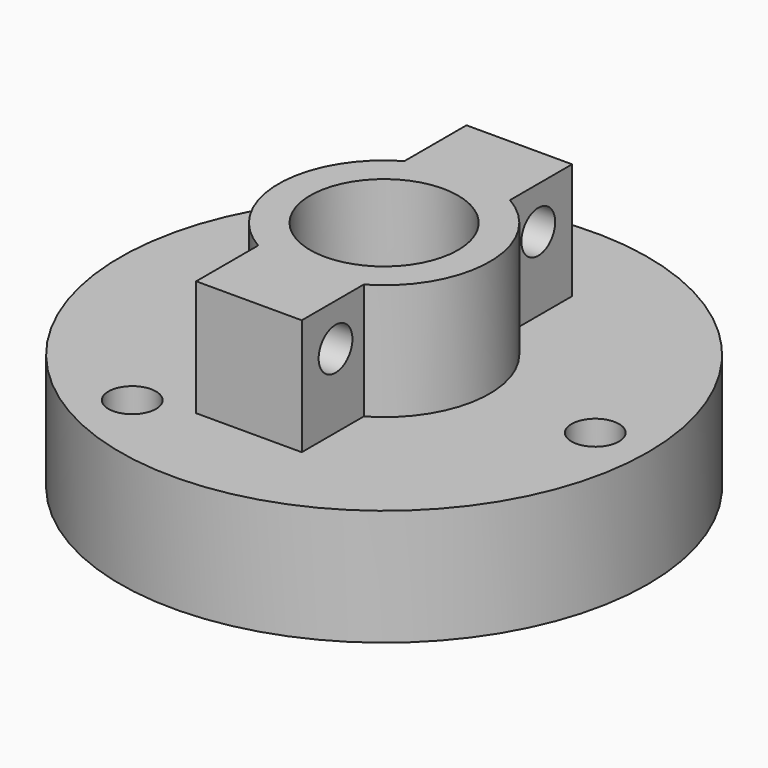
from build123d import *

# Parameters (mm, degrees)
SKETCH_R        = 25
PAD_DEPTH       = 11
SKETCH001_W     = 10
SKETCH001_H     = 32
PAD001_DEPTH    = 11
SKETCH002_R     = 10
PAD002_DEPTH    = 11
SKETCH003_R     = 7
POCKET_DEPTH    = 8
SKETCH004_R     = 2.25
POCKET001_DEPTH = 11
POCKET002_DEPTH = 8
SKETCH006_R     = 2
POCKET003_DEPTH = 10


with BuildPart() as part:
    # Sketch → Pad (new body)
    with BuildSketch(Plane.XY):
        Circle(SKETCH_R)
    extrude(amount=PAD_DEPTH)

    # Sketch001 → Pad001 (new body)
    with BuildSketch(Plane.XY.offset(11)):
        Rectangle(SKETCH001_W, SKETCH001_H)
    extrude(amount=PAD001_DEPTH)

    # Sketch002 → Pad002 (new body)
    with BuildSketch(Plane.XY.offset(11)):
        Circle(SKETCH002_R)
    extrude(amount=PAD002_DEPTH)

    # Sketch003 → Pocket (cut)
    with BuildSketch(Plane.XY.offset(22)):
        Circle(SKETCH003_R)
    extrude(amount=-POCKET_DEPTH, mode=Mode.SUBTRACT)

    # Sketch004 → Pocket001 (cut)
    with BuildSketch(Plane(origin=(0, 0, 0), x_dir=(1, 0, 0), z_dir=(0, 0, -1))):
        with Locations((-10, 17.320508)):
            Circle(SKETCH004_R)
        with Locations((20, 0)):
            Circle(SKETCH004_R)
        with Locations((-10, -17.320508)):
            Circle(SKETCH004_R)
    extrude(amount=-POCKET001_DEPTH, mode=Mode.SUBTRACT)

    # Sketch005 → Pocket002 (cut)
    with BuildSketch(Plane(origin=(0, 0, 0), x_dir=(1, 0, 0), z_dir=(0, 0, -1))):
        with BuildLine():
            ThreePointArc((-2.995739, 5.15983), (-4.223459, 4.214344), (-5.16629, 2.984585))
            ThreePointArc((-5.16629, 2.984585), (-7.987609, -0.004867), (-5.153374, -2.982076))
            ThreePointArc((-5.153374, -2.982076), (-4.202268, -4.217936), (-2.962876, -5.164437))
            ThreePointArc((-2.962876, -5.164437), (0.02321, -7.983708), (2.996215, -5.150646))
            ThreePointArc((2.996215, -5.150646), (4.257192, -4.171102), (5.217582, -2.895476))
            ThreePointArc((5.217582, -2.895476), (7.999941, 0.115474), (5.179963, 3.09122))
            ThreePointArc((5.179963, 3.09122), (4.223984, 4.306463), (2.990483, 5.238766))
            ThreePointArc((2.990483, 5.238766), (-0.039555, 7.999739), (-2.995739, 5.15983))
        make_face()
    extrude(amount=-POCKET002_DEPTH, mode=Mode.SUBTRACT)

    # Sketch006 → Pocket003 (cut)
    with BuildSketch(Plane(origin=(-5, 0, 0), x_dir=(0, -1, 0), z_dir=(-1, 0, 0))):
        with Locations((-12, 18)):
            Circle(SKETCH006_R)
        with Locations((12, 18)):
            Circle(SKETCH006_R)
    extrude(amount=-POCKET003_DEPTH, mode=Mode.SUBTRACT)


solid = part.part
